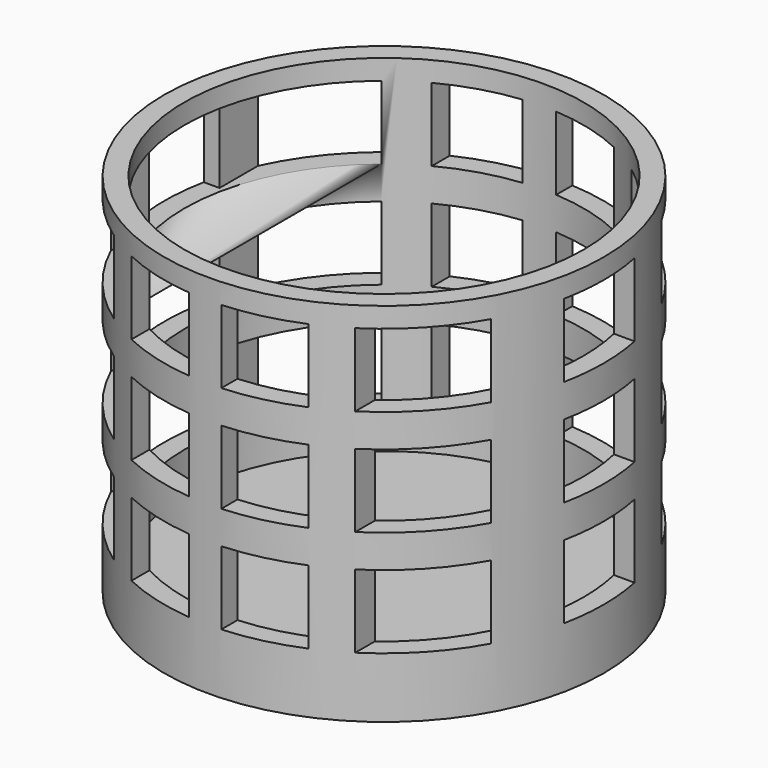
from build123d import *

# Parameters (mm, degrees)
F0_R     = 30
F1_DEPTH = 50
F2_T     = -2.75
F3_W     = 10
F3_H     = 10
F4_DEPTH = 30
F5_W     = 12
F5_H     = 10
F6_DEPTH = 50


with BuildPart() as f1:
    # F0 (on Top) → F1 (new body)
    with BuildSketch(Plane.XY):
        Circle(F0_R)
    extrude(amount=F1_DEPTH)

    # F2
    f2_openings = [f1.faces().sort_by_distance(p)[0] for p in [
        (0, 0, 50),
    ]]
    offset(amount=F2_T, openings=f2_openings)

    # F3 (on Front) → F4 (cut, symmetric)
    with BuildSketch(Plane.XZ):
        with Locations((-22.25, 42.25)):
            Rectangle(F3_W, F3_H)
        with Locations((-22.25, 27.75)):
            Rectangle(F3_W, F3_H)
        with Locations((-22.25, 13.25)):
            Rectangle(F3_W, F3_H)
        with Locations((-7.75, 42.25)):
            Rectangle(F3_W, F3_H)
        with Locations((-7.75, 27.75)):
            Rectangle(F3_W, F3_H)
        with Locations((-7.75, 13.25)):
            Rectangle(F3_W, F3_H)
        with Locations((6.75, 42.25)):
            Rectangle(F3_W, F3_H)
        with Locations((6.75, 27.75)):
            Rectangle(F3_W, F3_H)
        with Locations((6.75, 13.25)):
            Rectangle(F3_W, F3_H)
        with Locations((21.25, 42.25)):
            Rectangle(F3_W, F3_H)
        with Locations((21.25, 27.75)):
            Rectangle(F3_W, F3_H)
        with Locations((21.25, 13.25)):
            Rectangle(F3_W, F3_H)
    extrude(amount=F4_DEPTH, both=True, mode=Mode.SUBTRACT)

    # F5 (on Right) → F6 (cut, symmetric)
    with BuildSketch(Plane.YZ):
        with Locations((0, 13.25)):
            Rectangle(F5_W, F5_H)
        with Locations((0, 27.75)):
            Rectangle(F5_W, F5_H)
        with Locations((0, 42.25)):
            Rectangle(F5_W, F5_H)
    extrude(amount=F6_DEPTH, both=True, mode=Mode.SUBTRACT)


solid = f1.part
